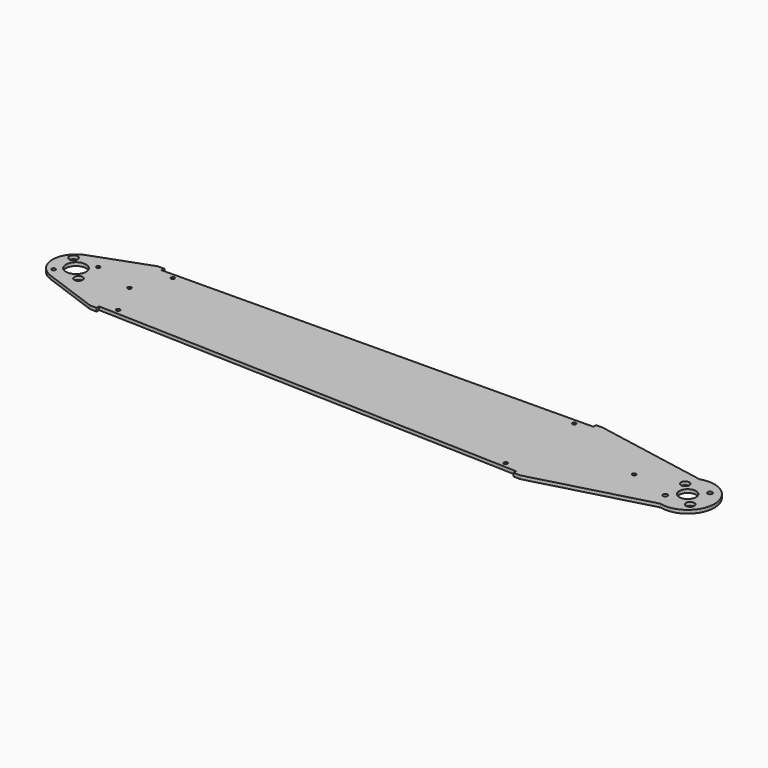
from build123d import *

# Parameters (mm, degrees)
F0_R     = 1.7272
F0_R_2   = 3.96875
F0_R_3   = 2.15265
F0_R_4   = 9.525
F0_R_5   = 7.9375
F1_DEPTH = 3.175


with BuildPart() as f1:
    # F0 (on Top) → F1 (new body)
    with BuildSketch(Plane.XY):
        with BuildLine():
            Line((-535.358043, 40.160772), (-588.318702, 20.884668))
            ThreePointArc((-588.318702, 20.884668), (-602.942304, 0), (-588.318702, -20.884668))
            Line((-588.318702, -20.884668), (-535.358043, -40.160772))
            Line((-535.358043, -40.160772), (-529.011557, -40.371983))
            Line((-529.011557, -40.371983), (-528.905951, -37.19874))
            Line((-528.905951, -37.19874), (-122.326798, -50.729687))
            Line((-122.326798, -50.729687), (-122.432403, -53.90293))
            Line((-122.432403, -53.90293), (-116.085917, -54.114141))
            Line((-116.085917, -54.114141), (-6.125468, -24.650327))
            ThreePointArc((-6.125468, -24.650327), (25.380331, 0.99941), (-8.044825, 24.092339))
            Line((-8.044825, 24.092339), (-115.871895, 44.057476))
            Line((-115.871895, 44.057476), (-122.221621, 43.998492))
            Line((-122.221621, 43.998492), (-122.192129, 40.823629))
            Line((-122.192129, 40.823629), (-528.978825, 37.044893))
            Line((-528.978825, 37.044893), (-529.008317, 40.219756))
            Line((-529.008317, 40.219756), (-535.358043, 40.160772))
        make_face()
        with Locations((-514.467949, -32.914099)):
            Circle(F0_R, mode=Mode.SUBTRACT)
        with Locations((-592.503891, -11.786586)):
            Circle(F0_R, mode=Mode.SUBTRACT)
        with Locations((-568.930718, -11.786586)):
            Circle(F0_R_2, mode=Mode.SUBTRACT)
        with Locations((-136.447984, -45.494597)):
            Circle(F0_R, mode=Mode.SUBTRACT)
        with Locations((-11.786586, -11.786586)):
            Circle(F0_R_3, mode=Mode.SUBTRACT)
        with Locations((11.786586, -11.786586)):
            Circle(F0_R_2, mode=Mode.SUBTRACT)
        with Locations((-580.717304, 0)):
            Circle(F0_R_4, mode=Mode.SUBTRACT)
        with Locations((-529.917304, 0)):
            Circle(F0_R, mode=Mode.SUBTRACT)
        with Locations((-592.503891, 11.786586)):
            Circle(F0_R_2, mode=Mode.SUBTRACT)
        with Locations((-568.930718, 11.786586)):
            Circle(F0_R, mode=Mode.SUBTRACT)
        with Locations((-514.647704, 32.415313)):
            Circle(F0_R, mode=Mode.SUBTRACT)
        with Locations((-50.8, 0)):
            Circle(F0_R, mode=Mode.SUBTRACT)
        Circle(F0_R_5, mode=Mode.SUBTRACT)
        with Locations((-11.786586, 11.786586)):
            Circle(F0_R_2, mode=Mode.SUBTRACT)
        with Locations((11.786586, 11.786586)):
            Circle(F0_R_3, mode=Mode.SUBTRACT)
        with Locations((-136.434775, 35.92862)):
            Circle(F0_R, mode=Mode.SUBTRACT)
    extrude(amount=F1_DEPTH)


solid = f1.part
